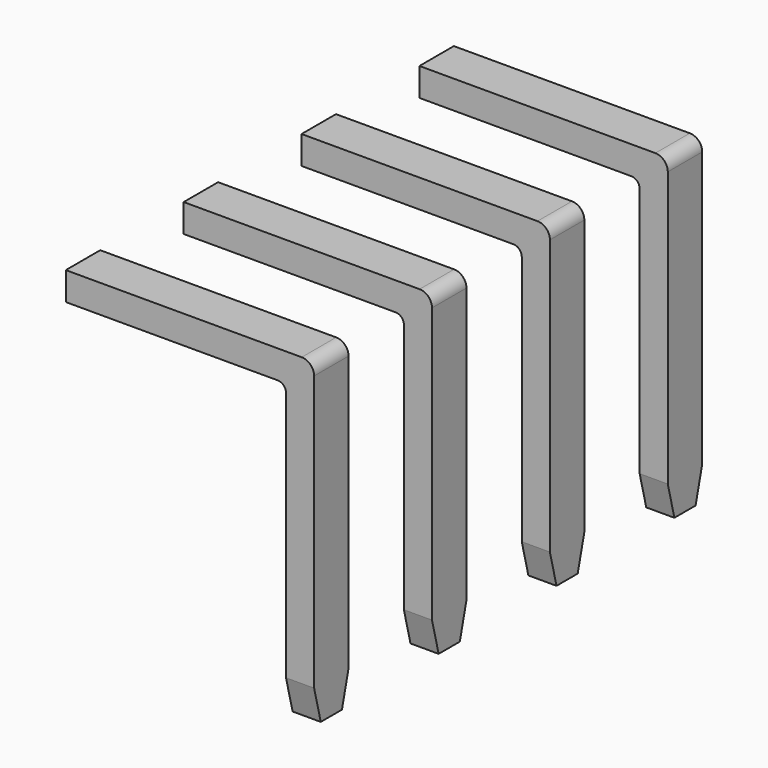
from build123d import *

# Parameters (mm, degrees)
BOX001_W         = 0.34
BOX001_H         = 0.52
BOX001_DEPTH     = 3.87
BOX002_W         = 3
BOX002_H         = 0.52
BOX002_DEPTH     = 0.34
FILLET003_R      = 0.15
FILLET004_R      = 0.1
CHAMFER012_SIZE2 = 0.4
CHAMFER012_SIZE  = 0.1
CHAMFER013_SIZE2 = 0.4
CHAMFER013_SIZE  = 0.1
ARRAY_Y_COUNT    = 4
ARRAY_Y_PITCH    = 1.78


with BuildPart() as kub001:
    # Box001 → Box001 (new body)
    with BuildSketch(Plane(origin=(-0.17, -0.26, -3), x_dir=(1, 0, 0), z_dir=(0, 0, 1))):
        with Locations((0.17, 0.26)):
            Rectangle(BOX001_W, BOX001_H)
    extrude(amount=BOX001_DEPTH)


with BuildPart() as array:
    # Box002 → Box002 (new body)
    with BuildSketch(Plane(origin=(-2.83, -0.26, 0.53), x_dir=(1, 0, 0), z_dir=(0, 0, 1))):
        with Locations((1.5, 0.26)):
            Rectangle(BOX002_W, BOX002_H)
    extrude(amount=BOX002_DEPTH)

    # Fusion: union Kub001
    add(kub001.part)

    # Fillet003
    fillet003_edges = [array.edges().sort_by_distance(p)[0] for p in [
        (0.17, 0, 0.87),
    ]]
    fillet(fillet003_edges, radius=FILLET003_R)

    # Fillet004
    fillet004_edges = [array.edges().sort_by_distance(p)[0] for p in [
        (-0.17, 0, 0.53),
    ]]
    fillet(fillet004_edges, radius=FILLET004_R)

    # Chamfer012
    chamfer012_edges = [array.edges().sort_by_distance(p)[0] for p in [
        (0, 0.26, -3),
    ]]
    chamfer012_side = array.faces().sort_by_distance((0, 0, -3))[0]
    chamfer(chamfer012_edges, length=CHAMFER012_SIZE, length2=CHAMFER012_SIZE2, reference=chamfer012_side)

    # Chamfer013
    chamfer013_edges = [array.edges().sort_by_distance(p)[0] for p in [
        (0, -0.26, -3),
    ]]
    chamfer013_side = array.faces().sort_by_distance((0, -0.05, -3))[0]
    chamfer(chamfer013_edges, length=CHAMFER013_SIZE, length2=CHAMFER013_SIZE2, reference=chamfer013_side)

    # Array Y: Array ×4


with BuildPart() as array_1:
    add(array.part)
    with Locations(*[(0, -i * ARRAY_Y_PITCH, 0) for i in range(1, ARRAY_Y_COUNT)]):
        add(array.part)


solid = array_1.part
